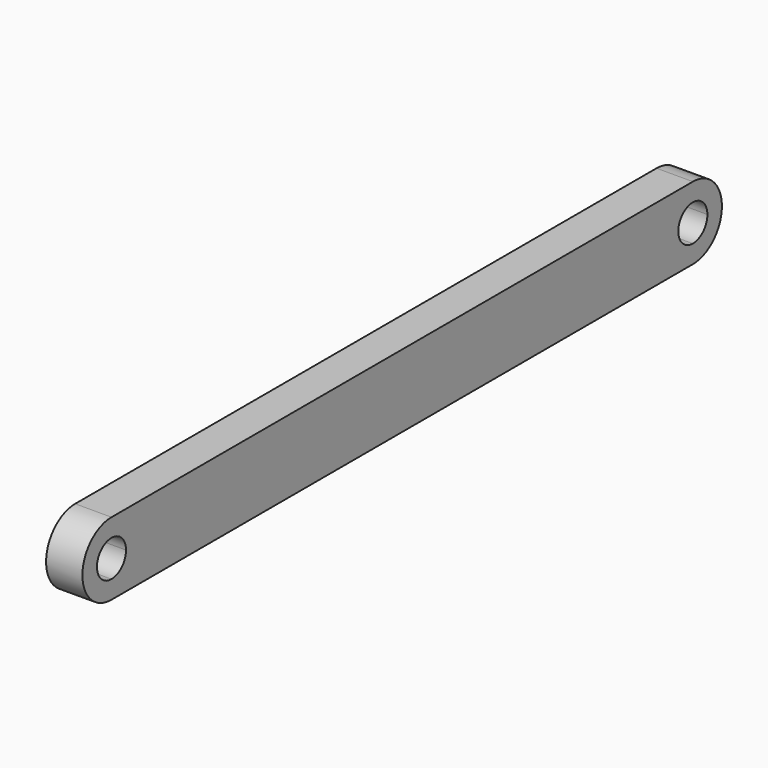
from build123d import *

# Parameters (mm, degrees)
F1_DEPTH = 25.4


with BuildPart() as f1:
    # F0 (on Right) → F1 (new body)
    with BuildSketch(Plane.YZ):
        with BuildLine():
            ThreePointArc((-91.4772798479, -11.9624281348), (-98.9167676057, 5.9980841073), (-116.8772798479, 13.4375718652))
            Line((-116.8772798479, 13.4375718652), (-116.8772798479, 0.7375718652))
            ThreePointArc((-116.8772798479, 0.7375718652), (-107.8970237268, -2.9821720138), (-104.1772798479, -11.9624281348))
            ThreePointArc((-104.1772798479, -11.9624281348), (-107.8970237268, -20.9426842559), (-116.8772798479, -24.6624281348))
            Line((-116.8772798479, -24.6624281348), (-116.8772798479, -37.3624281348))
            ThreePointArc((-116.8772798479, -37.3624281348), (-98.9167676057, -29.922940377), (-91.4772798479, -11.9624281348))
        make_face()
        with BuildLine():
            Line((391.1227201521, 13.4375718652), (-116.8772798479, 13.4375718652))
            ThreePointArc((-116.8772798479, 13.4375718652), (-98.9167676057, 5.9980841073), (-91.4772798479, -11.9624281348))
            ThreePointArc((-91.4772798479, -11.9624281348), (-98.9167676057, -29.922940377), (-116.8772798479, -37.3624281348))
            Line((-116.8772798479, -37.3624281348), (391.1227201521, -37.3624281348))
            ThreePointArc((391.1227201521, -37.3624281348), (365.7227201521, -11.9624281348), (391.1227201521, 13.4375718652))
        make_face()
        with BuildLine():
            Line((-116.8772798479, 0.7375718652), (-116.8772798479, 13.4375718652))
            ThreePointArc((-116.8772798479, 13.4375718652), (-142.2772798479, -11.9624281348), (-116.8772798479, -37.3624281348))
            Line((-116.8772798479, -37.3624281348), (-116.8772798479, -24.6624281348))
            ThreePointArc((-116.8772798479, -24.6624281348), (-129.5772798479, -11.9624281348), (-116.8772798479, 0.7375718652))
        make_face()
        with BuildLine():
            ThreePointArc((416.5227201521, -11.9624281348), (409.0832323943, 5.9980841073), (391.1227201521, 13.4375718652))
            Line((391.1227201521, 13.4375718652), (391.1227201521, 0.7375718652))
            ThreePointArc((391.1227201521, 0.7375718652), (400.1029762732, -2.9821720138), (403.8227201521, -11.9624281348))
            ThreePointArc((403.8227201521, -11.9624281348), (400.1029762732, -20.9426842559), (391.1227201521, -24.6624281348))
            Line((391.1227201521, -24.6624281348), (391.1227201521, -37.3624281348))
            ThreePointArc((391.1227201521, -37.3624281348), (409.0832323943, -29.922940377), (416.5227201521, -11.9624281348))
        make_face()
        with BuildLine():
            Line((391.1227201521, 0.7375718652), (391.1227201521, 13.4375718652))
            ThreePointArc((391.1227201521, 13.4375718652), (365.7227201521, -11.9624281348), (391.1227201521, -37.3624281348))
            Line((391.1227201521, -37.3624281348), (391.1227201521, -24.6624281348))
            ThreePointArc((391.1227201521, -24.6624281348), (378.4227201521, -11.9624281348), (391.1227201521, 0.7375718652))
        make_face()
    extrude(amount=F1_DEPTH)


solid = f1.part
